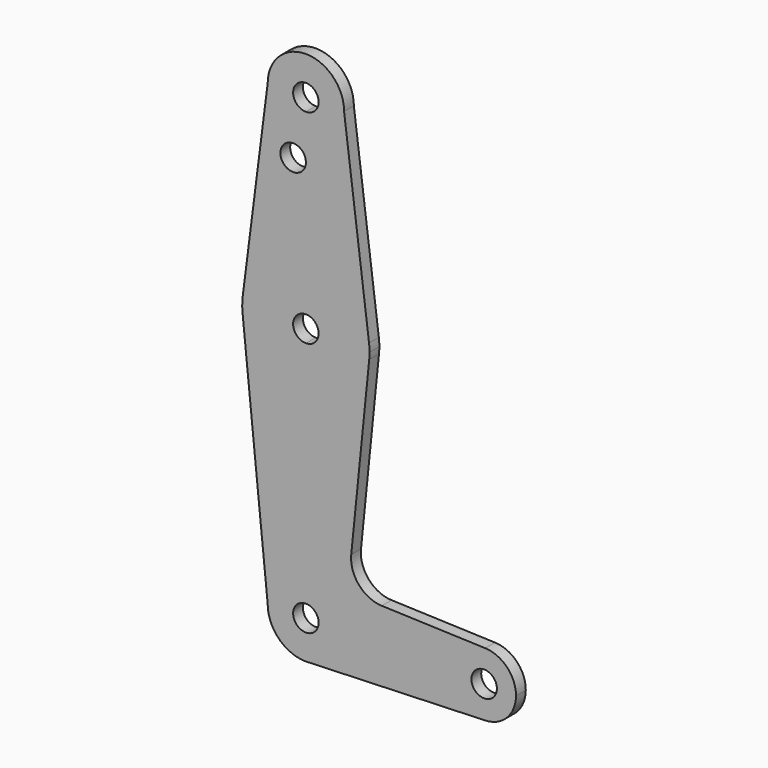
from build123d import *

# Parameters (mm, degrees)
F0_R     = 3.175
F1_DEPTH = 3.048


with BuildPart() as f1:
    # F0 (on Front) → F1 (new body)
    with BuildSketch(Plane.XZ):
        with BuildLine():
            ThreePointArc((3.175, 0), (-2.2450640303, -2.2450640303), (0, 3.175))
            Line((0, 3.175), (0, 9.525))
            ThreePointArc((0, 9.525), (-6.7351920908, 6.7351920908), (-9.525, 0))
            ThreePointArc((-9.525, 0), (-6.7351920908, -6.7351920908), (0, -9.525))
            Line((0, -9.525), (0.6773435479, -9.500885786))
            ThreePointArc((0.6773435479, -9.500885786), (6.9705567315, -6.4912990883), (9.525, 0))
            Line((9.525, 0), (3.175, 0))
        make_face()
        with BuildLine():
            ThreePointArc((-9.525, 0), (-6.7351920908, 6.7351920908), (0, 9.525))
            Line((0, 9.525), (0, 47.625))
            ThreePointArc((0, 47.625), (-10.644756084, 51.722700101), (-15.7942028036, 61.9003804205))
            Line((-15.7942028036, 61.9003804205), (-9.525, 0))
        make_face()
        with BuildLine():
            Line((0, 47.625), (0, 9.525))
            ThreePointArc((0, 9.525), (6.7351920908, 6.7351920908), (9.525, 0))
            Line((9.525, 0), (36.5125, 0))
            ThreePointArc((36.5125, 0), (38.9380895153, 5.7116327839), (44.7324052746, 7.9324746146))
            Line((44.7324052746, 7.9324746146), (18.9341027877, 8.850924033))
            ThreePointArc((18.9341027877, 8.850924033), (13.2249738114, 11.5709798305), (11.3072231466, 17.5971800924))
            Line((11.3072231466, 17.5971800924), (15.7942028036, 61.9003804205))
            ThreePointArc((15.7942028036, 61.9003804205), (10.644756084, 51.722700101), (0, 47.625))
        make_face()
        with BuildLine():
            Line((36.5125, 0), (9.525, 0))
            ThreePointArc((9.525, 0), (6.9705567315, -6.4912990883), (0.6773435479, -9.500885786))
            Line((0.6773435479, -9.500885786), (44.7324052746, -7.9324746146))
            ThreePointArc((44.7324052746, -7.9324746146), (38.9380895153, -5.7116327839), (36.5125, 0))
        make_face()
        with BuildLine():
            ThreePointArc((-15.7942028036, 61.9003804205), (-10.644756084, 51.722700101), (0, 47.625))
            Line((0, 47.625), (0, 60.325))
            ThreePointArc((0, 60.325), (-3.175, 63.5), (0, 66.675))
            Line((0, 66.675), (0, 79.375))
            ThreePointArc((0, 79.375), (-10.4912828548, 75.4142187767), (-15.7474569047, 65.5082893304))
            ThreePointArc((-15.7474569047, 65.5082893304), (-15.873667691, 63.7056672947), (-15.7942028036, 61.9003804205))
        make_face()
        with BuildLine():
            Line((0, 60.325), (0, 47.625))
            ThreePointArc((0, 47.625), (10.644756084, 51.722700101), (15.7942028036, 61.9003804205))
            ThreePointArc((15.7942028036, 61.9003804205), (15.8547878338, 62.6991705884), (15.875, 63.5))
            ThreePointArc((15.875, 63.5), (15.8430821396, 64.5061676396), (15.7474569047, 65.5082893304))
            ThreePointArc((15.7474569047, 65.5082893304), (10.4912828548, 75.4142187767), (0, 79.375))
            Line((0, 79.375), (0, 66.675))
            ThreePointArc((0, 66.675), (2.2450640303, 65.7450640303), (3.175, 63.5))
            ThreePointArc((3.175, 63.5), (2.2450640303, 61.2549359697), (0, 60.325))
        make_face()
        with BuildLine():
            ThreePointArc((44.7324052746, 7.9324746146), (38.9380895153, 5.7116327839), (36.5125, 0))
            ThreePointArc((36.5125, 0), (38.9380895153, -5.7116327839), (44.7324052746, -7.9324746146))
            ThreePointArc((44.7324052746, -7.9324746146), (50.1616327839, -5.5119104847), (52.3875, 0))
            ThreePointArc((52.3875, 0), (50.1616327839, 5.5119104847), (44.7324052746, 7.9324746146))
        make_face()
        with BuildLine():
            ThreePointArc((47.625, 0), (44.45, -3.175), (41.275, 0))
            ThreePointArc((41.275, 0), (44.45, 3.175), (47.625, 0))
        make_face(mode=Mode.SUBTRACT)
        with BuildLine():
            ThreePointArc((0, -9.525), (0.3388863295, -9.5189695375), (0.6773435479, -9.500885786))
            Line((0.6773435479, -9.500885786), (0, -9.525))
        make_face()
        with BuildLine():
            Line((-9.525, 114.3), (-15.7474569047, 65.5082893304))
            ThreePointArc((-15.7474569047, 65.5082893304), (-10.4912828548, 75.4142187767), (0, 79.375))
            Line((0, 79.375), (0, 100.0252))
            Line((0, 100.0252), (0, 104.775))
            ThreePointArc((0, 104.775), (-6.7351920908, 107.5648079092), (-9.525, 114.3))
        make_face()
        with Locations((-3.175, 100.0252)):
            Circle(F0_R, mode=Mode.SUBTRACT)
        with BuildLine():
            Line((0, 100.0252), (0, 79.375))
            ThreePointArc((0, 79.375), (10.4912828548, 75.4142187767), (15.7474569047, 65.5082893304))
            Line((15.7474569047, 65.5082893304), (9.525, 114.3))
            ThreePointArc((9.525, 114.3), (6.7351920908, 107.5648079092), (0, 104.775))
            Line((0, 104.775), (0, 100.0252))
        make_face()
        with BuildLine():
            ThreePointArc((9.525, 114.3), (0, 123.825), (-9.525, 114.3))
            ThreePointArc((-9.525, 114.3), (-6.7351920908, 107.5648079092), (0, 104.775))
            ThreePointArc((0, 104.775), (6.7351920908, 107.5648079092), (9.525, 114.3))
        make_face()
        with BuildLine():
            ThreePointArc((3.175, 114.3), (2.2450640303, 112.0549359697), (0, 111.125))
            ThreePointArc((0, 111.125), (-2.2450640303, 116.5450640303), (3.175, 114.3))
        make_face(mode=Mode.SUBTRACT)
        with BuildLine():
            Line((0, 9.525), (0, 3.175))
            ThreePointArc((0, 3.175), (2.2450640303, 2.2450640303), (3.175, 0))
            Line((3.175, 0), (9.525, 0))
            ThreePointArc((9.525, 0), (6.7351920908, 6.7351920908), (0, 9.525))
        make_face()
    extrude(amount=F1_DEPTH)


solid = f1.part
